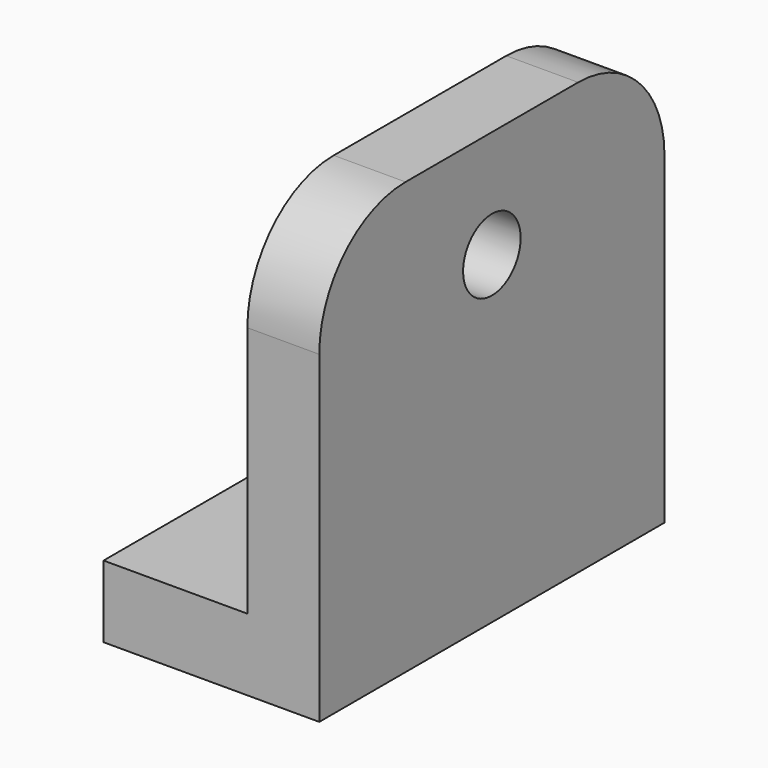
from build123d import *

# Parameters (mm, degrees)
F1_DEPTH = 76.2
F2_R     = 12.7
F3_DEPTH = 25.4
F5_DEPTH = 25.4
F6_R     = 38.1


with BuildPart() as f1:
    # F0 (on Front) → F1 (new body, symmetric)
    with BuildSketch(Plane.XZ):
        Polygon((-76.2, 0), (0, 0), (0, 152.4), (-25.4, 152.4), (-25.4, 25.4), (-76.2, 25.4), align=None)
    extrude(amount=F1_DEPTH, both=True)

    # F2 (on face) → F3 (cut)
    with BuildSketch(Plane.YZ):
        with Locations((0, 114.3)):
            Circle(F2_R)
    extrude(amount=-F3_DEPTH, mode=Mode.SUBTRACT)

    # F4 (on face) → F5 (cut)
    with BuildSketch(Plane(origin=(0, 0, 0), x_dir=(1, 0, 0), z_dir=(0, 0, -1))):
        with BuildLine():
            Line((-76.2, 12.7), (-76.2, 0))
            Line((-76.2, 0), (-76.2, -12.7))
            Line((-76.2, -12.7), (-63.5, -12.7))
            ThreePointArc((-63.5, -12.7), (-50.8, 0), (-63.5, 12.7))
            Line((-63.5, 12.7), (-76.2, 12.7))
        make_face()
    extrude(amount=-F5_DEPTH, mode=Mode.SUBTRACT)

    # F6
    f6_edges = [f1.edges().sort_by_distance(p)[0] for p in [
        (-12.7, 76.2, 152.4),
        (-12.7, -76.2, 152.4),
    ]]
    fillet(f6_edges, radius=F6_R)


solid = f1.part
